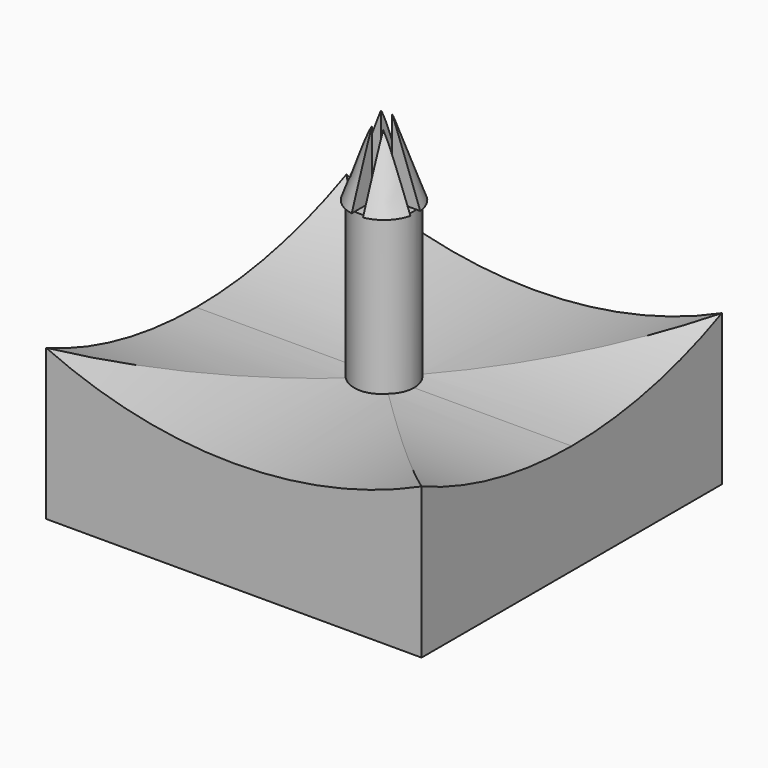
from build123d import *

# Parameters (mm, degrees)
F0_W      = 12.7
F0_H      = 12.7
F1_DEPTH  = 12.7
F2_W      = 25.4
F2_H      = 25.4
F3_DEPTH  = 25.4
F5_DEPTH  = 25.4
F9_W      = 2.032
F9_H      = 12.7
F11_W     = 0.381
F11_H     = 0.5424337578
F11_H_2   = 0.2195662422
F13_DEPTH = 6.35


with BuildPart() as f1:
    # F0 (on Top) → F1 (new body)
    with BuildSketch(Plane.XY):
        with Locations((-6.35, 6.35)):
            Rectangle(F0_W, F0_H)
        with Locations((6.35, 6.35)):
            Rectangle(F0_W, F0_H)
        with Locations((-6.35, -6.35)):
            Rectangle(F0_W, F0_H)
        with Locations((6.35, -6.35)):
            Rectangle(F0_W, F0_H)
    extrude(amount=F1_DEPTH)

    # F2 (on face) → F3 (cut)
    with BuildSketch(Plane.XZ.offset(12.7)):
        with BuildLine():
            ThreePointArc((30.6605122425, 38.1), (-16.5933496542, 63.8823148345), (-12.7, 10.1934235175))
            Line((-12.7, 10.1934235175), (-12.7, 12.7))
            Line((-12.7, 12.7), (-12.7, 38.1))
            Line((-12.7, 38.1), (12.7, 38.1))
            Line((12.7, 38.1), (12.7, 12.7))
            Line((12.7, 12.7), (12.7, 10.1934235175))
            ThreePointArc((12.7, 10.1934235175), (25.7823148345, 21.5066503458), (30.6605122425, 38.1))
        make_face()
        with Locations((0, 25.4)):
            Rectangle(F2_W, F2_H)
        with BuildLine():
            Line((-12.7, 12.7), (-12.7, 10.1934235175))
            ThreePointArc((-12.7, 10.1934235175), (0, 7.4394877575), (12.7, 10.1934235175))
            Line((12.7, 10.1934235175), (12.7, 12.7))
            Line((12.7, 12.7), (-12.7, 12.7))
        make_face()
    extrude(amount=-F3_DEPTH, mode=Mode.SUBTRACT)

    # F4 (on face) → F5 (cut)
    with BuildSketch(Plane.YZ.offset(12.7)):
        Polygon((-12.7, 38.1), (-12.7, 10.1934235175), (0, 38.1), align=None)
        Polygon((12.7, 38.1), (0, 38.1), (12.7, 10.1934235175), align=None)
        with BuildLine():
            Line((12.7, 10.1934235175), (-12.7, 10.1934235175))
            ThreePointArc((-12.7, 10.1934235175), (-6.4975795911, 8.1358802828), (0, 7.4394877575))
            ThreePointArc((0, 7.4394877575), (6.4975795911, 8.1358802828), (12.7, 10.1934235175))
        make_face()
    extrude(amount=-F5_DEPTH, mode=Mode.SUBTRACT)

    # F9 (on offset) → F12 (revolve)
    with BuildSketch(Plane.XZ):
        Polygon((0, 17.9578), (2.032, 17.9578), (2.286, 17.9578), (0, 24.3078), align=None)
        with Locations((1.016, 11.6078)):
            Rectangle(F9_W, F9_H)
    revolve(axis=Axis((0, 0, 11.6078), (0, 0, 1)))

    # F11 (on offset) → F13 (cut)
    with BuildSketch(Plane(origin=(0, 0, 24.3078), x_dir=(1, 0, 0), z_dir=(0, 0, -1))):
        Polygon((0.381, 0.5424337578), (0.381, 2.286), (-0.381, 2.286), (-0.381, 0.5424337578), (0, 0.5424337578), align=None)
        Polygon((2.286, 0.5424337578), (0.381, 0.5424337578), (0.381, 0), (0.381, -0.2195662422), (2.286, -0.2195662422), align=None)
        with Locations((0.1905, 0.2712168789)):
            Rectangle(F11_W, F11_H)
        with Locations((-0.1905, 0.2712168789)):
            Rectangle(F11_W, F11_H)
        Polygon((-0.381, 0), (-0.381, 0.5424337578), (-2.286, 0.5424337578), (-2.286, -0.2195662422), (-0.381, -0.2195662422), align=None)
        with Locations((0.1905, -0.1097831211)):
            Rectangle(F11_W, F11_H_2)
        with Locations((-0.1905, -0.1097831211)):
            Rectangle(F11_W, F11_H_2)
        Polygon((0.381, -2.286), (0.381, -0.2195662422), (0, -0.2195662422), (-0.381, -0.2195662422), (-0.381, -2.286), align=None)
    extrude(amount=F13_DEPTH, mode=Mode.SUBTRACT)


solid = f1.part
